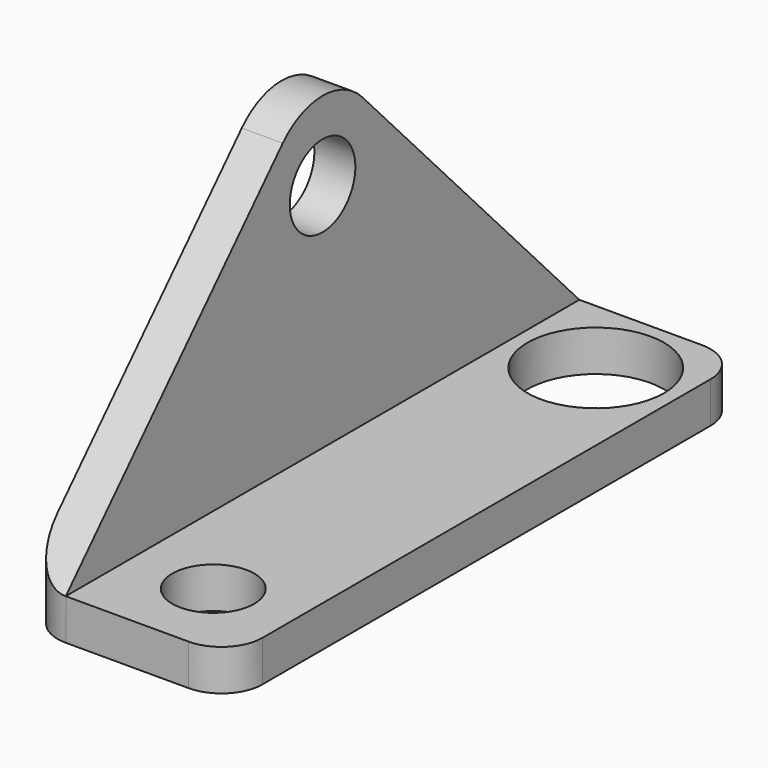
from build123d import *

# Parameters (mm, degrees)
F0_R     = 3
F0_R_2   = 5
F1_DEPTH = 3
F2_R     = 3
F3_DEPTH = 3
F4_R     = 5
F5_R     = 3


with BuildPart() as f1:
    # F0 (on Top) → F1 (new body)
    with BuildSketch(Plane.XY):
        Polygon((6, 6), (0, 6), (-6, 6), (-6, -41), (0, -41), (6, -41), align=None)
        with Locations((0, -35)):
            Circle(F0_R, mode=Mode.SUBTRACT)
        Circle(F0_R_2, mode=Mode.SUBTRACT)
    extrude(amount=F1_DEPTH)

    # F2 (on face) → F3 (join)
    with BuildSketch(Plane(origin=(-6, 0, 0), x_dir=(0, -1, 0), z_dir=(-1, 0, 0))):
        Polygon((17.5, 28), (-6, 3), (-6, 0), (41, 0), (41, 3), align=None)
        with Locations((17.5, 19.903563)):
            Circle(F2_R, mode=Mode.SUBTRACT)
    extrude(amount=F3_DEPTH)

    # F4
    f4_edges = [f1.edges().sort_by_distance(p)[0] for p in [
        (-7.5, -17.5, 28),
    ]]
    fillet(f4_edges, radius=F4_R)

    # F5
    f5_edges = [f1.edges().sort_by_distance(p)[0] for p in [
        (6, -41, 1.5),
        (-9, -41, 1.5),
        (6, 6, 1.5),
        (-9, 6, 1.5),
    ]]
    fillet(f5_edges, radius=F5_R)


solid = f1.part
